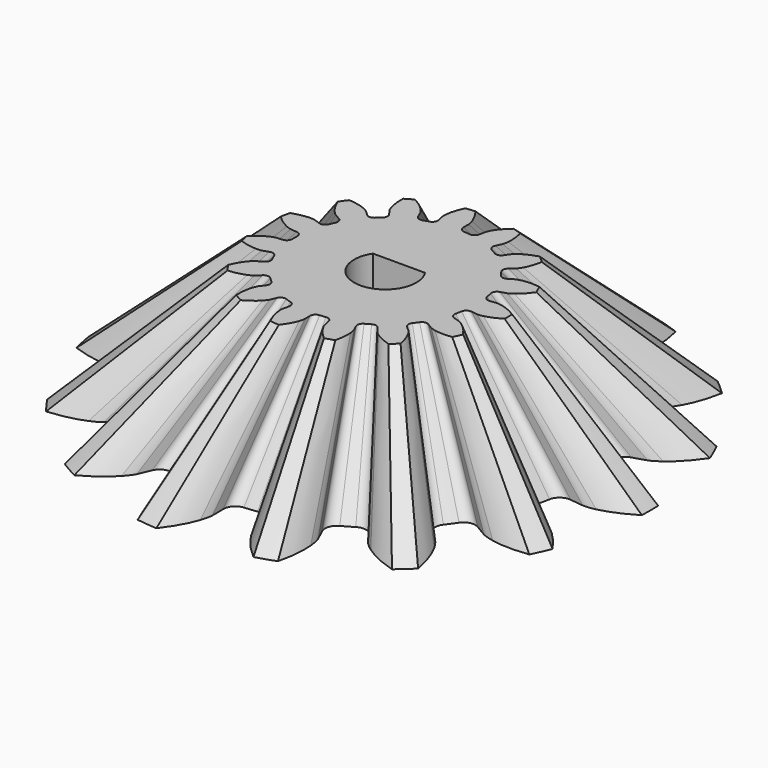
from build123d import *

# Parameters (mm, degrees)
POCKET_DEPTH = 8


with BuildPart() as part:
    # InvoluteGear → Loft section 0
    with BuildSketch(Plane.XY):
        with BuildLine():
            Line((13.165238, -1.582436), (14.027851, -1.684557))
            add(Edge.make_bspline(
                [(14.027851, -1.684557), (14.114762, -1.689022), (14.376017, -1.6907), (14.813388, -1.593059)],
                knots=[0, 0, 0, 0, 1, 1, 1, 1], degree=3))
            add(Edge.make_bspline(
                [(14.813388, -1.593059), (15.335308, -1.474182), (16.082347, -1.214897), (16.989812, -0.655236)],
                knots=[0, 0, 0, 0, 1, 1, 1, 1], degree=3))
            ThreePointArc((16.989812, -0.655236), (17.001222, 0.000521), (16.987329, 0.656229))
            add(Edge.make_bspline(
                [(16.987329, 0.656229), (16.082347, 1.214897), (15.335308, 1.474182), (14.813388, 1.593059)],
                knots=[0, 0, 0, 0, 1, 1, 1, 1], degree=3))
            add(Edge.make_bspline(
                [(14.813388, 1.593059), (14.376017, 1.6907), (14.114762, 1.689022), (14.027851, 1.684557)],
                knots=[0, 0, 0, 0, 1, 1, 1, 1], degree=3))
            Line((14.027851, 1.684557), (13.165238, 1.582436))
            ThreePointArc((13.165238, 1.582436), (12.610006, 1.716521), (12.304976, 2.199449))
            ThreePointArc((12.304976, 2.199449), (12.226845, 2.598896), (12.135751, 2.995588))
            ThreePointArc((12.135751, 2.995588), (12.217985, 3.560831), (12.670678, 3.909158))
            Line((12.670678, 3.909158), (13.50025, 4.166721))
            add(Edge.make_bspline(
                [(13.50025, 4.166721), (13.581464, 4.197993), (13.820815, 4.302721), (14.180659, 4.569815)],
                knots=[0, 0, 0, 0, 1, 1, 1, 1], degree=3))
            add(Edge.make_bspline(
                [(14.180659, 4.569815), (14.609105, 4.890699), (15.186098, 5.431416), (15.787474, 6.311791)],
                knots=[0, 0, 0, 0, 1, 1, 1, 1], degree=3))
            ThreePointArc((15.787474, 6.311791), (15.531177, 6.915496), (15.251785, 7.508865))
            add(Edge.make_bspline(
                [(15.251785, 7.508865), (14.197812, 7.651144), (13.409897, 7.584164), (12.884748, 7.48048)],
                knots=[0, 0, 0, 0, 1, 1, 1, 1], degree=3))
            add(Edge.make_bspline(
                [(12.884748, 7.48048), (12.445476, 7.391785), (12.207489, 7.283989), (12.129908, 7.24456)],
                knots=[0, 0, 0, 0, 1, 1, 1, 1], degree=3))
            Line((12.129908, 7.24456), (11.383409, 6.800412))
            ThreePointArc((11.383409, 6.800412), (10.821641, 6.697072), (10.346558, 7.014181))
            ThreePointArc((10.346558, 7.014181), (10.112712, 7.347316), (9.868145, 7.67266))
            ThreePointArc((9.868145, 7.67266), (9.713365, 8.222483), (9.985243, 8.724823))
            Line((9.985243, 8.724823), (10.638334, 9.297536))
            add(Edge.make_bspline(
                [(10.638334, 9.297536), (10.699807, 9.359136), (10.875868, 9.552164), (11.095965, 9.942528)],
                knots=[0, 0, 0, 0, 1, 1, 1, 1], degree=3))
            add(Edge.make_bspline(
                [(11.095965, 9.942528), (11.356854, 10.409934), (11.664035, 11.138588), (11.855338, 12.187452)],
                knots=[0, 0, 0, 0, 1, 1, 1, 1], degree=3))
            ThreePointArc((11.855338, 12.187452), (11.375651, 12.634719), (10.879069, 13.063149))
            add(Edge.make_bspline(
                [(10.879069, 13.063149), (9.858346, 12.764438), (9.165793, 12.382775), (8.728217, 12.074457)],
                knots=[0, 0, 0, 0, 1, 1, 1, 1], degree=3))
            add(Edge.make_bspline(
                [(8.728217, 12.074457), (8.362998, 11.814762), (8.189431, 11.619488), (8.134594, 11.551913)],
                knots=[0, 0, 0, 0, 1, 1, 1, 1], degree=3))
            Line((8.134594, 11.551913), (7.633285, 10.842535))
            ThreePointArc((7.633285, 10.842535), (7.162117, 10.519637), (6.599127, 10.616097))
            ThreePointArc((6.599127, 10.616097), (6.25, 10.825318), (5.894247, 11.02306))
            ThreePointArc((5.894247, 11.02306), (5.529215, 11.462394), (5.573268, 12.031886))
            Line((5.573268, 12.031886), (5.936953, 12.820722))
            add(Edge.make_bspline(
                [(5.936953, 12.820722), (5.968056, 12.902), (6.050385, 13.14995), (6.092678, 13.596087)],
                knots=[0, 0, 0, 0, 1, 1, 1, 1], degree=3))
            add(Edge.make_bspline(
                [(6.092678, 13.596087), (6.140901, 14.129197), (6.125154, 14.919797), (5.873307, 15.955792)],
                knots=[0, 0, 0, 0, 1, 1, 1, 1], degree=3))
            ThreePointArc((5.873307, 15.955792), (5.253171, 16.169284), (4.625262, 16.358696))
            add(Edge.make_bspline(
                [(4.625262, 16.358696), (3.814283, 15.670645), (3.33684, 15.040292), (3.062499, 14.580652)],
                knots=[0, 0, 0, 0, 1, 1, 1, 1], degree=3))
            add(Edge.make_bspline(
                [(3.062499, 14.580652), (2.834482, 14.19486), (2.755346, 13.945873), (2.732735, 13.861836)],
                knots=[0, 0, 0, 0, 1, 1, 1, 1], degree=3))
            Line((2.732735, 13.861836), (2.563297, 13.009885))
            ThreePointArc((2.563297, 13.009885), (2.264197, 12.523262), (1.710647, 12.382394))
            ThreePointArc((1.710647, 12.382394), (1.306606, 12.431524), (0.90118, 12.467473))
            ThreePointArc((0.90118, 12.467473), (0.389014, 12.720352), (0.197625, 13.258527))
            Line((0.197625, 13.258527), (0.209019, 14.127089))
            add(Edge.make_bspline(
                [(0.209019, 14.127089), (0.204375, 14.21399), (0.178735, 14.47399), (0.035912, 14.898759)],
                knots=[0, 0, 0, 0, 1, 1, 1, 1], degree=3))
            add(Edge.make_bspline(
                [(0.035912, 14.898759), (-0.13687, 15.405393), (-0.472821, 16.121238), (-1.124272, 16.965231)],
                knots=[0, 0, 0, 0, 1, 1, 1, 1], degree=3))
            ThreePointArc((-1.124272, 16.965231), (-1.777629, 16.908033), (-2.428294, 16.825676))
            add(Edge.make_bspline(
                [(-2.428294, 16.825676), (-2.889305, 15.867255), (-3.069082, 15.097205), (-3.132753, 14.565719)],
                knots=[0, 0, 0, 0, 1, 1, 1, 1], degree=3))
            add(Edge.make_bspline(
                [(-3.132753, 14.565719), (-3.184141, 14.120538), (-3.155163, 13.860889), (-3.141639, 13.77492)],
                knots=[0, 0, 0, 0, 1, 1, 1, 1], degree=3))
            Line((-3.141639, 13.77492), (-2.949909, 12.927708))
            ThreePointArc((-2.949909, 12.927708), (-3.025223, 12.361501), (-3.47362, 12.007663))
            ThreePointArc((-3.47362, 12.007663), (-3.862712, 11.888206), (-4.247709, 11.756146))
            ThreePointArc((-4.247709, 11.756146), (-4.818452, 11.778846), (-5.21219, 12.192649))
            Line((-5.21219, 12.192649), (-5.555056, 12.990754))
            add(Edge.make_bspline(
                [(-5.555056, 12.990754), (-5.594645, 13.068253), (-5.723819, 13.295346), (-6.027064, 13.6253)],
                knots=[0, 0, 0, 0, 1, 1, 1, 1], degree=3))
            add(Edge.make_bspline(
                [(-6.027064, 13.6253), (-6.390975, 14.017857), (-6.989042, 14.53517), (-7.927455, 15.041227)],
                knots=[0, 0, 0, 0, 1, 1, 1, 1], degree=3))
            ThreePointArc((-7.927455, 15.041227), (-8.501062, 14.72323), (-9.061976, 14.383344))
            add(Edge.make_bspline(
                [(-9.061976, 14.383344), (-9.093305, 13.320273), (-8.944333, 12.543675), (-8.786324, 12.032241)],
                knots=[0, 0, 0, 0, 1, 1, 1, 1], degree=3))
            add(Edge.make_bspline(
                [(-8.786324, 12.032241), (-8.652198, 11.604646), (-8.520117, 11.379231), (-8.472795, 11.306196)],
                knots=[0, 0, 0, 0, 1, 1, 1, 1], degree=3))
            Line((-8.472795, 11.306196), (-7.953049, 10.610213))
            ThreePointArc((-7.953049, 10.610213), (-7.791554, 10.062325), (-8.057266, 9.556697))
            ThreePointArc((-8.057266, 9.556697), (-8.364133, 9.28931), (-8.662131, 9.012075))
            ThreePointArc((-8.662131, 9.012075), (-9.192763, 8.80067), (-9.720769, 9.01855))
            Line((-9.720769, 9.01855), (-10.358612, 9.608199))
            add(Edge.make_bspline(
                [(-10.358612, 9.608199), (-10.4263, 9.662896), (-10.636674, 9.817816), (-11.047906, 9.995903)],
                knots=[0, 0, 0, 0, 1, 1, 1, 1], degree=3))
            add(Edge.make_bspline(
                [(-11.047906, 9.995903), (-11.540022, 10.206506), (-12.296794, 10.435839), (-13.359908, 10.516458)],
                knots=[0, 0, 0, 0, 1, 1, 1, 1], degree=3))
            ThreePointArc((-13.359908, 10.516458), (-13.754584, 9.992646), (-14.12876, 9.454001))
            add(Edge.make_bspline(
                [(-14.12876, 9.454001), (-13.724991, 8.470094), (-13.273027, 7.821229), (-12.92066, 7.418279)],
                knots=[0, 0, 0, 0, 1, 1, 1, 1], degree=3))
            add(Edge.make_bspline(
                [(-12.92066, 7.418279), (-12.624211, 7.082206), (-12.411864, 6.930002), (-12.338927, 6.882528)],
                knots=[0, 0, 0, 0, 1, 1, 1, 1], degree=3))
            Line((-12.338927, 6.882528), (-11.581034, 6.458116))
            ThreePointArc((-11.581034, 6.458116), (-11.210655, 6.02328), (-11.247738, 5.453292))
            ThreePointArc((-11.247738, 5.453292), (-11.419318, 5.084208), (-11.578791, 4.709734))
            ThreePointArc((-11.578791, 4.709734), (-11.977562, 4.300779), (-12.548539, 4.285063))
            Line((-12.548539, 4.285063), (-13.371069, 4.5643))
            add(Edge.make_bspline(
                [(-13.371069, 4.5643), (-13.455153, 4.586737), (-13.710351, 4.642696), (-14.158464, 4.638124)],
                knots=[0, 0, 0, 0, 1, 1, 1, 1], degree=3))
            add(Edge.make_bspline(
                [(-14.158464, 4.638124), (-14.693695, 4.630357), (-15.478318, 4.532057), (-16.482312, 4.173298)],
                knots=[0, 0, 0, 0, 1, 1, 1, 1], degree=3))
            ThreePointArc((-16.482312, 4.173298), (-16.629813, 3.534243), (-16.752553, 2.889975))
            add(Edge.make_bspline(
                [(-16.752553, 2.889975), (-15.983501, 2.155359), (-15.306694, 1.746422), (-14.820896, 1.521629)],
                knots=[0, 0, 0, 0, 1, 1, 1, 1], degree=3))
            add(Edge.make_bspline(
                [(-14.820896, 1.521629), (-14.413383, 1.335188), (-14.157488, 1.282511), (-14.071548, 1.268809)],
                knots=[0, 0, 0, 0, 1, 1, 1, 1], degree=3))
            Line((-14.071548, 1.268809), (-13.206553, 1.189351))
            ThreePointArc((-13.206553, 1.189351), (-12.691332, 0.942756), (-12.493373, 0.406963))
            ThreePointArc((-12.493373, 0.406963), (-12.5, 0), (-12.493373, -0.406963))
            ThreePointArc((-12.493373, -0.406963), (-12.691332, -0.942756), (-13.206553, -1.189351))
            Line((-13.206553, -1.189351), (-14.071548, -1.268809))
            add(Edge.make_bspline(
                [(-14.071548, -1.268809), (-14.157488, -1.282511), (-14.413383, -1.335188), (-14.820896, -1.521629)],
                knots=[0, 0, 0, 0, 1, 1, 1, 1], degree=3))
            add(Edge.make_bspline(
                [(-14.820896, -1.521629), (-15.306694, -1.746422), (-15.983501, -2.155359), (-16.754775, -2.891463)],
                knots=[0, 0, 0, 0, 1, 1, 1, 1], degree=3))
            ThreePointArc((-16.754775, -2.891463), (-16.629596, -3.535262), (-16.479678, -4.173754))
            add(Edge.make_bspline(
                [(-16.479678, -4.173754), (-15.478318, -4.532057), (-14.693695, -4.630357), (-14.158464, -4.638124)],
                knots=[0, 0, 0, 0, 1, 1, 1, 1], degree=3))
            add(Edge.make_bspline(
                [(-14.158464, -4.638124), (-13.710351, -4.642696), (-13.455153, -4.586737), (-13.371069, -4.5643)],
                knots=[0, 0, 0, 0, 1, 1, 1, 1], degree=3))
            Line((-13.371069, -4.5643), (-12.548539, -4.285063))
            ThreePointArc((-12.548539, -4.285063), (-11.977562, -4.300779), (-11.578791, -4.709734))
            ThreePointArc((-11.578791, -4.709734), (-11.419318, -5.084208), (-11.247738, -5.453292))
            ThreePointArc((-11.247738, -5.453292), (-11.210655, -6.02328), (-11.581034, -6.458116))
            Line((-11.581034, -6.458116), (-12.338927, -6.882528))
            add(Edge.make_bspline(
                [(-12.338927, -6.882528), (-12.411864, -6.930002), (-12.624211, -7.082206), (-12.92066, -7.418279)],
                knots=[0, 0, 0, 0, 1, 1, 1, 1], degree=3))
            add(Edge.make_bspline(
                [(-12.92066, -7.418279), (-13.273027, -7.821229), (-13.724991, -8.470094), (-14.130184, -9.456264)],
                knots=[0, 0, 0, 0, 1, 1, 1, 1], degree=3))
            ThreePointArc((-14.130184, -9.456264), (-13.753971, -9.993489), (-13.357316, -10.515803))
            add(Edge.make_bspline(
                [(-13.357316, -10.515803), (-12.296794, -10.435839), (-11.540022, -10.206506), (-11.047906, -9.995903)],
                knots=[0, 0, 0, 0, 1, 1, 1, 1], degree=3))
            add(Edge.make_bspline(
                [(-11.047906, -9.995903), (-10.636674, -9.817816), (-10.4263, -9.662896), (-10.358612, -9.608199)],
                knots=[0, 0, 0, 0, 1, 1, 1, 1], degree=3))
            Line((-10.358612, -9.608199), (-9.720769, -9.01855))
            ThreePointArc((-9.720769, -9.01855), (-9.192763, -8.80067), (-8.662131, -9.012075))
            ThreePointArc((-8.662131, -9.012075), (-8.364133, -9.28931), (-8.057266, -9.556697))
            ThreePointArc((-8.057266, -9.556697), (-7.791554, -10.062325), (-7.953049, -10.610213))
            Line((-7.953049, -10.610213), (-8.472795, -11.306196))
            add(Edge.make_bspline(
                [(-8.472795, -11.306196), (-8.520117, -11.379231), (-8.652198, -11.604646), (-8.786324, -12.032241)],
                knots=[0, 0, 0, 0, 1, 1, 1, 1], degree=3))
            add(Edge.make_bspline(
                [(-8.786324, -12.032241), (-8.944333, -12.543675), (-9.093305, -13.320273), (-9.062357, -14.385991)],
                knots=[0, 0, 0, 0, 1, 1, 1, 1], degree=3))
            ThreePointArc((-9.062357, -14.385991), (-8.50016, -14.72375), (-7.925353, -15.039574))
            add(Edge.make_bspline(
                [(-7.925353, -15.039574), (-6.989042, -14.53517), (-6.390975, -14.017857), (-6.027064, -13.6253)],
                knots=[0, 0, 0, 0, 1, 1, 1, 1], degree=3))
            add(Edge.make_bspline(
                [(-6.027064, -13.6253), (-5.723819, -13.295346), (-5.594645, -13.068253), (-5.555056, -12.990754)],
                knots=[0, 0, 0, 0, 1, 1, 1, 1], degree=3))
            Line((-5.555056, -12.990754), (-5.21219, -12.192649))
            ThreePointArc((-5.21219, -12.192649), (-4.818452, -11.778846), (-4.247709, -11.756146))
            ThreePointArc((-4.247709, -11.756146), (-3.862712, -11.888206), (-3.47362, -12.007663))
            ThreePointArc((-3.47362, -12.007663), (-3.025223, -12.361501), (-2.949909, -12.927708))
            Line((-2.949909, -12.927708), (-3.141639, -13.77492))
            add(Edge.make_bspline(
                [(-3.141639, -13.77492), (-3.155163, -13.860889), (-3.184141, -14.120538), (-3.132753, -14.565719)],
                knots=[0, 0, 0, 0, 1, 1, 1, 1], degree=3))
            add(Edge.make_bspline(
                [(-3.132753, -14.565719), (-3.069082, -15.097205), (-2.889305, -15.867255), (-2.427565, -16.828249)],
                knots=[0, 0, 0, 0, 1, 1, 1, 1], degree=3))
            ThreePointArc((-2.427565, -16.828249), (-1.776594, -16.908142), (-1.123025, -16.962866))
            add(Edge.make_bspline(
                [(-1.123025, -16.962866), (-0.472821, -16.121238), (-0.13687, -15.405393), (0.035912, -14.898759)],
                knots=[0, 0, 0, 0, 1, 1, 1, 1], degree=3))
            add(Edge.make_bspline(
                [(0.035912, -14.898759), (0.178735, -14.47399), (0.204375, -14.21399), (0.209019, -14.127089)],
                knots=[0, 0, 0, 0, 1, 1, 1, 1], degree=3))
            Line((0.209019, -14.127089), (0.197625, -13.258527))
            ThreePointArc((0.197625, -13.258527), (0.389014, -12.720352), (0.90118, -12.467473))
            ThreePointArc((0.90118, -12.467473), (1.306606, -12.431524), (1.710647, -12.382394))
            ThreePointArc((1.710647, -12.382394), (2.264197, -12.523262), (2.563297, -13.009885))
            Line((2.563297, -13.009885), (2.732735, -13.861836))
            add(Edge.make_bspline(
                [(2.732735, -13.861836), (2.755346, -13.945873), (2.834482, -14.19486), (3.062499, -14.580652)],
                knots=[0, 0, 0, 0, 1, 1, 1, 1], degree=3))
            add(Edge.make_bspline(
                [(3.062499, -14.580652), (3.33684, -15.040292), (3.814283, -15.670645), (4.626974, -16.36075)],
                knots=[0, 0, 0, 0, 1, 1, 1, 1], degree=3))
            ThreePointArc((4.626974, -16.36075), (5.254162, -16.168962), (5.873485, -15.953124))
            add(Edge.make_bspline(
                [(5.873485, -15.953124), (6.125154, -14.919797), (6.140901, -14.129197), (6.092678, -13.596087)],
                knots=[0, 0, 0, 0, 1, 1, 1, 1], degree=3))
            add(Edge.make_bspline(
                [(6.092678, -13.596087), (6.050385, -13.14995), (5.968056, -12.902), (5.936953, -12.820722)],
                knots=[0, 0, 0, 0, 1, 1, 1, 1], degree=3))
            Line((5.936953, -12.820722), (5.573268, -12.031886))
            ThreePointArc((5.573268, -12.031886), (5.529215, -11.462394), (5.894247, -11.02306))
            ThreePointArc((5.894247, -11.02306), (6.25, -10.825318), (6.599127, -10.616097))
            ThreePointArc((6.599127, -10.616097), (7.162117, -10.519637), (7.633285, -10.842535))
            Line((7.633285, -10.842535), (8.134594, -11.551913))
            add(Edge.make_bspline(
                [(8.134594, -11.551913), (8.189431, -11.619488), (8.362998, -11.814762), (8.728217, -12.074457)],
                knots=[0, 0, 0, 0, 1, 1, 1, 1], degree=3))
            add(Edge.make_bspline(
                [(8.728217, -12.074457), (9.165793, -12.382775), (9.858346, -12.764438), (10.881468, -13.064329)],
                knots=[0, 0, 0, 0, 1, 1, 1, 1], degree=3))
            ThreePointArc((10.881468, -13.064329), (11.376425, -12.634022), (11.854416, -12.184943))
            add(Edge.make_bspline(
                [(11.854416, -12.184943), (11.664035, -11.138588), (11.356854, -10.409934), (11.095965, -9.942528)],
                knots=[0, 0, 0, 0, 1, 1, 1, 1], degree=3))
            add(Edge.make_bspline(
                [(11.095965, -9.942528), (10.875868, -9.552164), (10.699807, -9.359136), (10.638334, -9.297536)],
                knots=[0, 0, 0, 0, 1, 1, 1, 1], degree=3))
            Line((10.638334, -9.297536), (9.985243, -8.724823))
            ThreePointArc((9.985243, -8.724823), (9.713365, -8.222483), (9.868145, -7.67266))
            ThreePointArc((9.868145, -7.67266), (10.112712, -7.347316), (10.346558, -7.014181))
            ThreePointArc((10.346558, -7.014181), (10.821641, -6.697072), (11.383409, -6.800412))
            Line((11.383409, -6.800412), (12.129908, -7.24456))
            add(Edge.make_bspline(
                [(12.129908, -7.24456), (12.207489, -7.283989), (12.445476, -7.391785), (12.884748, -7.48048)],
                knots=[0, 0, 0, 0, 1, 1, 1, 1], degree=3))
            add(Edge.make_bspline(
                [(12.884748, -7.48048), (13.409897, -7.584164), (14.197812, -7.651144), (15.254457, -7.508967)],
                knots=[0, 0, 0, 0, 1, 1, 1, 1], degree=3))
            ThreePointArc((15.254457, -7.508967), (15.531601, -6.914544), (15.78561, -6.309874))
            add(Edge.make_bspline(
                [(15.78561, -6.309874), (15.186098, -5.431416), (14.609105, -4.890699), (14.180659, -4.569815)],
                knots=[0, 0, 0, 0, 1, 1, 1, 1], degree=3))
            add(Edge.make_bspline(
                [(14.180659, -4.569815), (13.820815, -4.302721), (13.581464, -4.197993), (13.50025, -4.166721)],
                knots=[0, 0, 0, 0, 1, 1, 1, 1], degree=3))
            Line((13.50025, -4.166721), (12.670678, -3.909158))
            ThreePointArc((12.670678, -3.909158), (12.217985, -3.560831), (12.135751, -2.995588))
            ThreePointArc((12.135751, -2.995588), (12.226845, -2.598896), (12.304976, -2.199449))
            ThreePointArc((12.304976, -2.199449), (12.610006, -1.716521), (13.165238, -1.582436))
        make_face()
    # InvoluteGear001 → Loft section 1
    with BuildSketch(Plane.XY.offset(8)):
        with BuildLine():
            Line((6.121836, -0.735833), (6.522951, -0.783319))
            add(Edge.make_bspline(
                [(6.522951, -0.783319), (6.563364, -0.785395), (6.684848, -0.786176), (6.888225, -0.740773)],
                knots=[0, 0, 0, 0, 1, 1, 1, 1], degree=3))
            add(Edge.make_bspline(
                [(6.888225, -0.740773), (7.130918, -0.685495), (7.478291, -0.564927), (7.900262, -0.304685)],
                knots=[0, 0, 0, 0, 1, 1, 1, 1], degree=3))
            ThreePointArc((7.900262, -0.304685), (7.905568, 0.000242), (7.899108, 0.305147))
            add(Edge.make_bspline(
                [(7.899108, 0.305147), (7.478291, 0.564927), (7.130918, 0.685495), (6.888225, 0.740773)],
                knots=[0, 0, 0, 0, 1, 1, 1, 1], degree=3))
            add(Edge.make_bspline(
                [(6.888225, 0.740773), (6.684848, 0.786176), (6.563364, 0.785395), (6.522951, 0.783319)],
                knots=[0, 0, 0, 0, 1, 1, 1, 1], degree=3))
            Line((6.522951, 0.783319), (6.121836, 0.735833))
            ThreePointArc((6.121836, 0.735833), (5.863653, 0.798182), (5.721814, 1.022744))
            ThreePointArc((5.721814, 1.022744), (5.685483, 1.208487), (5.643124, 1.392948))
            ThreePointArc((5.643124, 1.392948), (5.681363, 1.655786), (5.891865, 1.817758))
            Line((5.891865, 1.817758), (6.277616, 1.937525))
            add(Edge.make_bspline(
                [(6.277616, 1.937525), (6.315381, 1.952067), (6.426679, 2.000765), (6.594006, 2.124964)],
                knots=[0, 0, 0, 0, 1, 1, 1, 1], degree=3))
            add(Edge.make_bspline(
                [(6.594006, 2.124964), (6.793234, 2.274175), (7.061536, 2.525609), (7.341175, 2.934983)],
                knots=[0, 0, 0, 0, 1, 1, 1, 1], degree=3))
            ThreePointArc((7.341175, 2.934983), (7.221997, 3.215705), (7.09208, 3.491622))
            add(Edge.make_bspline(
                [(7.09208, 3.491622), (6.601983, 3.557782), (6.235602, 3.526636), (5.991408, 3.478423)],
                knots=[0, 0, 0, 0, 1, 1, 1, 1], degree=3))
            add(Edge.make_bspline(
                [(5.991408, 3.478423), (5.787146, 3.43718), (5.676483, 3.387055), (5.640407, 3.368721)],
                knots=[0, 0, 0, 0, 1, 1, 1, 1], degree=3))
            Line((5.640407, 3.368721), (5.293285, 3.162191))
            ThreePointArc((5.293285, 3.162191), (5.032063, 3.114138), (4.81115, 3.261594))
            ThreePointArc((4.81115, 3.261594), (4.702411, 3.416502), (4.588687, 3.567787))
            ThreePointArc((4.588687, 3.567787), (4.516715, 3.823455), (4.643138, 4.057042))
            Line((4.643138, 4.057042), (4.946825, 4.323354))
            add(Edge.make_bspline(
                [(4.946825, 4.323354), (4.97541, 4.351998), (5.057279, 4.441756), (5.159624, 4.623275)],
                knots=[0, 0, 0, 0, 1, 1, 1, 1], degree=3))
            add(Edge.make_bspline(
                [(5.159624, 4.623275), (5.280937, 4.840619), (5.423776, 5.179444), (5.512732, 5.667165)],
                knots=[0, 0, 0, 0, 1, 1, 1, 1], degree=3))
            ThreePointArc((5.512732, 5.667165), (5.289678, 5.875144), (5.058767, 6.074364))
            add(Edge.make_bspline(
                [(5.058767, 6.074364), (4.584131, 5.935464), (4.262094, 5.75799), (4.058621, 5.614623)],
                knots=[0, 0, 0, 0, 1, 1, 1, 1], degree=3))
            add(Edge.make_bspline(
                [(4.058621, 5.614623), (3.888794, 5.493864), (3.808086, 5.403062), (3.782586, 5.37164)],
                knots=[0, 0, 0, 0, 1, 1, 1, 1], degree=3))
            Line((3.782586, 5.37164), (3.549477, 5.041779))
            ThreePointArc((3.549477, 5.041779), (3.330384, 4.891631), (3.068594, 4.936485))
            ThreePointArc((3.068594, 4.936485), (2.90625, 5.033773), (2.740825, 5.125723))
            ThreePointArc((2.740825, 5.125723), (2.571085, 5.330013), (2.59157, 5.594827))
            Line((2.59157, 5.594827), (2.760683, 5.961636))
            add(Edge.make_bspline(
                [(2.760683, 5.961636), (2.775146, 5.99943), (2.813429, 6.114727), (2.833095, 6.32218)],
                knots=[0, 0, 0, 0, 1, 1, 1, 1], degree=3))
            add(Edge.make_bspline(
                [(2.833095, 6.32218), (2.855519, 6.570077), (2.848197, 6.937706), (2.731088, 7.419443)],
                knots=[0, 0, 0, 0, 1, 1, 1, 1], degree=3))
            ThreePointArc((2.731088, 7.419443), (2.442725, 7.518717), (2.150747, 7.606794))
            add(Edge.make_bspline(
                [(2.150747, 7.606794), (1.773641, 7.28685), (1.551631, 6.993736), (1.424062, 6.780003)],
                knots=[0, 0, 0, 0, 1, 1, 1, 1], degree=3))
            add(Edge.make_bspline(
                [(1.424062, 6.780003), (1.318034, 6.60061), (1.281236, 6.484831), (1.270722, 6.445754)],
                knots=[0, 0, 0, 0, 1, 1, 1, 1], degree=3))
            Line((1.270722, 6.445754), (1.191933, 6.049597))
            ThreePointArc((1.191933, 6.049597), (1.052852, 5.823317), (0.795451, 5.757813))
            ThreePointArc((0.795451, 5.757813), (0.607572, 5.780659), (0.419049, 5.797375))
            ThreePointArc((0.419049, 5.797375), (0.180891, 5.914964), (0.091896, 6.165215))
            Line((0.091896, 6.165215), (0.097194, 6.569096))
            add(Edge.make_bspline(
                [(0.097194, 6.569096), (0.095034, 6.609506), (0.083112, 6.730405), (0.016699, 6.927923)],
                knots=[0, 0, 0, 0, 1, 1, 1, 1], degree=3))
            add(Edge.make_bspline(
                [(0.016699, 6.927923), (-0.063644, 7.163508), (-0.219862, 7.496376), (-0.522787, 7.888832)],
                knots=[0, 0, 0, 0, 1, 1, 1, 1], degree=3))
            ThreePointArc((-0.522787, 7.888832), (-0.826598, 7.862235), (-1.129157, 7.82394))
            add(Edge.make_bspline(
                [(-1.129157, 7.82394), (-1.343527, 7.378274), (-1.427123, 7.0202), (-1.45673, 6.773059)],
                knots=[0, 0, 0, 0, 1, 1, 1, 1], degree=3))
            add(Edge.make_bspline(
                [(-1.45673, 6.773059), (-1.480626, 6.56605), (-1.467151, 6.445313), (-1.460862, 6.405338)],
                knots=[0, 0, 0, 0, 1, 1, 1, 1], degree=3))
            Line((-1.460862, 6.405338), (-1.371708, 6.011384))
            ThreePointArc((-1.371708, 6.011384), (-1.406728, 5.748098), (-1.615233, 5.583563))
            ThreePointArc((-1.615233, 5.583563), (-1.796161, 5.528016), (-1.975185, 5.466608))
            ThreePointArc((-1.975185, 5.466608), (-2.24058, 5.477163), (-2.423668, 5.669582))
            Line((-2.423668, 5.669582), (-2.583101, 6.0407))
            add(Edge.make_bspline(
                [(-2.583101, 6.0407), (-2.60151, 6.076738), (-2.661576, 6.182336), (-2.802585, 6.335765)],
                knots=[0, 0, 0, 0, 1, 1, 1, 1], degree=3))
            add(Edge.make_bspline(
                [(-2.802585, 6.335765), (-2.971803, 6.518304), (-3.249904, 6.758854), (-3.686267, 6.99417)],
                knots=[0, 0, 0, 0, 1, 1, 1, 1], degree=3))
            ThreePointArc((-3.686267, 6.99417), (-3.952994, 6.846302), (-4.213819, 6.688255))
            add(Edge.make_bspline(
                [(-4.213819, 6.688255), (-4.228387, 6.193927), (-4.159115, 5.832809), (-4.085641, 5.594992)],
                knots=[0, 0, 0, 0, 1, 1, 1, 1], degree=3))
            add(Edge.make_bspline(
                [(-4.085641, 5.594992), (-4.023272, 5.39616), (-3.961854, 5.291343), (-3.93985, 5.257381)],
                knots=[0, 0, 0, 0, 1, 1, 1, 1], degree=3))
            Line((-3.93985, 5.257381), (-3.698168, 4.933749))
            ThreePointArc((-3.698168, 4.933749), (-3.623073, 4.678981), (-3.746629, 4.443864))
            ThreePointArc((-3.746629, 4.443864), (-3.889322, 4.319529), (-4.027891, 4.190615))
            ThreePointArc((-4.027891, 4.190615), (-4.274635, 4.092312), (-4.520158, 4.193626))
            Line((-4.520158, 4.193626), (-4.816754, 4.467813))
            add(Edge.make_bspline(
                [(-4.816754, 4.467813), (-4.84823, 4.493247), (-4.946053, 4.565285), (-5.137276, 4.648095)],
                knots=[0, 0, 0, 0, 1, 1, 1, 1], degree=3))
            add(Edge.make_bspline(
                [(-5.137276, 4.648095), (-5.36611, 4.746025), (-5.718009, 4.852665), (-6.212357, 4.890153)],
                knots=[0, 0, 0, 0, 1, 1, 1, 1], degree=3))
            ThreePointArc((-6.212357, 4.890153), (-6.395881, 4.646581), (-6.569874, 4.39611))
            add(Edge.make_bspline(
                [(-6.569874, 4.39611), (-6.382121, 3.938594), (-6.171958, 3.636872), (-6.008107, 3.4495)],
                knots=[0, 0, 0, 0, 1, 1, 1, 1], degree=3))
            add(Edge.make_bspline(
                [(-6.008107, 3.4495), (-5.870258, 3.293226), (-5.771517, 3.222451), (-5.737601, 3.200376)],
                knots=[0, 0, 0, 0, 1, 1, 1, 1], degree=3))
            Line((-5.737601, 3.200376), (-5.385181, 3.003024))
            ThreePointArc((-5.385181, 3.003024), (-5.212954, 2.800825), (-5.230198, 2.535781))
            ThreePointArc((-5.230198, 2.535781), (-5.309983, 2.364157), (-5.384138, 2.190026))
            ThreePointArc((-5.384138, 2.190026), (-5.569566, 1.999862), (-5.835071, 1.992554))
            Line((-5.835071, 1.992554), (-6.217547, 2.122399))
            add(Edge.make_bspline(
                [(-6.217547, 2.122399), (-6.256646, 2.132832), (-6.375313, 2.158854), (-6.583686, 2.156728)],
                knots=[0, 0, 0, 0, 1, 1, 1, 1], degree=3))
            add(Edge.make_bspline(
                [(-6.583686, 2.156728), (-6.832568, 2.153116), (-7.197418, 2.107406), (-7.664275, 1.940584)],
                knots=[0, 0, 0, 0, 1, 1, 1, 1], degree=3))
            ThreePointArc((-7.664275, 1.940584), (-7.732863, 1.643423), (-7.789937, 1.343838))
            add(Edge.make_bspline(
                [(-7.789937, 1.343838), (-7.432328, 1.002242), (-7.117613, 0.812086), (-6.891716, 0.707558)],
                knots=[0, 0, 0, 0, 1, 1, 1, 1], degree=3))
            add(Edge.make_bspline(
                [(-6.891716, 0.707558), (-6.702223, 0.620862), (-6.583232, 0.596368), (-6.54327, 0.589996)],
                knots=[0, 0, 0, 0, 1, 1, 1, 1], degree=3))
            Line((-6.54327, 0.589996), (-6.141047, 0.553048))
            ThreePointArc((-6.141047, 0.553048), (-5.901469, 0.438382), (-5.809419, 0.189238))
            ThreePointArc((-5.809419, 0.189238), (-5.8125, 0), (-5.809419, -0.189238))
            ThreePointArc((-5.809419, -0.189238), (-5.901469, -0.438382), (-6.141047, -0.553048))
            Line((-6.141047, -0.553048), (-6.54327, -0.589996))
            add(Edge.make_bspline(
                [(-6.54327, -0.589996), (-6.583232, -0.596368), (-6.702223, -0.620862), (-6.891716, -0.707558)],
                knots=[0, 0, 0, 0, 1, 1, 1, 1], degree=3))
            add(Edge.make_bspline(
                [(-6.891716, -0.707558), (-7.117613, -0.812086), (-7.432328, -1.002242), (-7.79097, -1.34453)],
                knots=[0, 0, 0, 0, 1, 1, 1, 1], degree=3))
            ThreePointArc((-7.79097, -1.34453), (-7.732762, -1.643897), (-7.66305, -1.940795))
            add(Edge.make_bspline(
                [(-7.66305, -1.940795), (-7.197418, -2.107406), (-6.832568, -2.153116), (-6.583686, -2.156728)],
                knots=[0, 0, 0, 0, 1, 1, 1, 1], degree=3))
            add(Edge.make_bspline(
                [(-6.583686, -2.156728), (-6.375313, -2.158854), (-6.256646, -2.132832), (-6.217547, -2.122399)],
                knots=[0, 0, 0, 0, 1, 1, 1, 1], degree=3))
            Line((-6.217547, -2.122399), (-5.835071, -1.992554))
            ThreePointArc((-5.835071, -1.992554), (-5.569566, -1.999862), (-5.384138, -2.190026))
            ThreePointArc((-5.384138, -2.190026), (-5.309983, -2.364157), (-5.230198, -2.535781))
            ThreePointArc((-5.230198, -2.535781), (-5.212954, -2.800825), (-5.385181, -3.003024))
            Line((-5.385181, -3.003024), (-5.737601, -3.200376))
            add(Edge.make_bspline(
                [(-5.737601, -3.200376), (-5.771517, -3.222451), (-5.870258, -3.293226), (-6.008107, -3.4495)],
                knots=[0, 0, 0, 0, 1, 1, 1, 1], degree=3))
            add(Edge.make_bspline(
                [(-6.008107, -3.4495), (-6.171958, -3.636872), (-6.382121, -3.938594), (-6.570536, -4.397163)],
                knots=[0, 0, 0, 0, 1, 1, 1, 1], degree=3))
            ThreePointArc((-6.570536, -4.397163), (-6.395597, -4.646972), (-6.211152, -4.889848))
            add(Edge.make_bspline(
                [(-6.211152, -4.889848), (-5.718009, -4.852665), (-5.36611, -4.746025), (-5.137276, -4.648095)],
                knots=[0, 0, 0, 0, 1, 1, 1, 1], degree=3))
            add(Edge.make_bspline(
                [(-5.137276, -4.648095), (-4.946053, -4.565285), (-4.84823, -4.493247), (-4.816754, -4.467813)],
                knots=[0, 0, 0, 0, 1, 1, 1, 1], degree=3))
            Line((-4.816754, -4.467813), (-4.520158, -4.193626))
            ThreePointArc((-4.520158, -4.193626), (-4.274635, -4.092312), (-4.027891, -4.190615))
            ThreePointArc((-4.027891, -4.190615), (-3.889322, -4.319529), (-3.746629, -4.443864))
            ThreePointArc((-3.746629, -4.443864), (-3.623073, -4.678981), (-3.698168, -4.933749))
            Line((-3.698168, -4.933749), (-3.93985, -5.257381))
            add(Edge.make_bspline(
                [(-3.93985, -5.257381), (-3.961854, -5.291343), (-4.023272, -5.39616), (-4.085641, -5.594992)],
                knots=[0, 0, 0, 0, 1, 1, 1, 1], degree=3))
            add(Edge.make_bspline(
                [(-4.085641, -5.594992), (-4.159115, -5.832809), (-4.228387, -6.193927), (-4.213996, -6.689486)],
                knots=[0, 0, 0, 0, 1, 1, 1, 1], degree=3))
            ThreePointArc((-4.213996, -6.689486), (-3.952574, -6.846544), (-3.685289, -6.993402))
            add(Edge.make_bspline(
                [(-3.685289, -6.993402), (-3.249904, -6.758854), (-2.971803, -6.518304), (-2.802585, -6.335765)],
                knots=[0, 0, 0, 0, 1, 1, 1, 1], degree=3))
            add(Edge.make_bspline(
                [(-2.802585, -6.335765), (-2.661576, -6.182336), (-2.60151, -6.076738), (-2.583101, -6.0407)],
                knots=[0, 0, 0, 0, 1, 1, 1, 1], degree=3))
            Line((-2.583101, -6.0407), (-2.423668, -5.669582))
            ThreePointArc((-2.423668, -5.669582), (-2.24058, -5.477163), (-1.975185, -5.466608))
            ThreePointArc((-1.975185, -5.466608), (-1.796161, -5.528016), (-1.615233, -5.583563))
            ThreePointArc((-1.615233, -5.583563), (-1.406728, -5.748098), (-1.371708, -6.011384))
            Line((-1.371708, -6.011384), (-1.460862, -6.405338))
            add(Edge.make_bspline(
                [(-1.460862, -6.405338), (-1.467151, -6.445313), (-1.480626, -6.56605), (-1.45673, -6.773059)],
                knots=[0, 0, 0, 0, 1, 1, 1, 1], degree=3))
            add(Edge.make_bspline(
                [(-1.45673, -6.773059), (-1.427123, -7.0202), (-1.343527, -7.378274), (-1.128818, -7.825136)],
                knots=[0, 0, 0, 0, 1, 1, 1, 1], degree=3))
            ThreePointArc((-1.128818, -7.825136), (-0.826116, -7.862286), (-0.522207, -7.887733))
            add(Edge.make_bspline(
                [(-0.522207, -7.887733), (-0.219862, -7.496376), (-0.063644, -7.163508), (0.016699, -6.927923)],
                knots=[0, 0, 0, 0, 1, 1, 1, 1], degree=3))
            add(Edge.make_bspline(
                [(0.016699, -6.927923), (0.083112, -6.730405), (0.095034, -6.609506), (0.097194, -6.569096)],
                knots=[0, 0, 0, 0, 1, 1, 1, 1], degree=3))
            Line((0.097194, -6.569096), (0.091896, -6.165215))
            ThreePointArc((0.091896, -6.165215), (0.180891, -5.914964), (0.419049, -5.797375))
            ThreePointArc((0.419049, -5.797375), (0.607572, -5.780659), (0.795451, -5.757813))
            ThreePointArc((0.795451, -5.757813), (1.052852, -5.823317), (1.191933, -6.049597))
            Line((1.191933, -6.049597), (1.270722, -6.445754))
            add(Edge.make_bspline(
                [(1.270722, -6.445754), (1.281236, -6.484831), (1.318034, -6.60061), (1.424062, -6.780003)],
                knots=[0, 0, 0, 0, 1, 1, 1, 1], degree=3))
            add(Edge.make_bspline(
                [(1.424062, -6.780003), (1.551631, -6.993736), (1.773641, -7.28685), (2.151543, -7.607749)],
                knots=[0, 0, 0, 0, 1, 1, 1, 1], degree=3))
            ThreePointArc((2.151543, -7.607749), (2.443185, -7.518567), (2.73117, -7.418203))
            add(Edge.make_bspline(
                [(2.73117, -7.418203), (2.848197, -6.937706), (2.855519, -6.570077), (2.833095, -6.32218)],
                knots=[0, 0, 0, 0, 1, 1, 1, 1], degree=3))
            add(Edge.make_bspline(
                [(2.833095, -6.32218), (2.813429, -6.114727), (2.775146, -5.99943), (2.760683, -5.961636)],
                knots=[0, 0, 0, 0, 1, 1, 1, 1], degree=3))
            Line((2.760683, -5.961636), (2.59157, -5.594827))
            ThreePointArc((2.59157, -5.594827), (2.571085, -5.330013), (2.740825, -5.125723))
            ThreePointArc((2.740825, -5.125723), (2.90625, -5.033773), (3.068594, -4.936485))
            ThreePointArc((3.068594, -4.936485), (3.330384, -4.891631), (3.549477, -5.041779))
            Line((3.549477, -5.041779), (3.782586, -5.37164))
            add(Edge.make_bspline(
                [(3.782586, -5.37164), (3.808086, -5.403062), (3.888794, -5.493864), (4.058621, -5.614623)],
                knots=[0, 0, 0, 0, 1, 1, 1, 1], degree=3))
            add(Edge.make_bspline(
                [(4.058621, -5.614623), (4.262094, -5.75799), (4.584131, -5.935464), (5.059883, -6.074913)],
                knots=[0, 0, 0, 0, 1, 1, 1, 1], degree=3))
            ThreePointArc((5.059883, -6.074913), (5.290038, -5.87482), (5.512303, -5.665998))
            add(Edge.make_bspline(
                [(5.512303, -5.665998), (5.423776, -5.179444), (5.280937, -4.840619), (5.159624, -4.623275)],
                knots=[0, 0, 0, 0, 1, 1, 1, 1], degree=3))
            add(Edge.make_bspline(
                [(5.159624, -4.623275), (5.057279, -4.441756), (4.97541, -4.351998), (4.946825, -4.323354)],
                knots=[0, 0, 0, 0, 1, 1, 1, 1], degree=3))
            Line((4.946825, -4.323354), (4.643138, -4.057042))
            ThreePointArc((4.643138, -4.057042), (4.516715, -3.823455), (4.588687, -3.567787))
            ThreePointArc((4.588687, -3.567787), (4.702411, -3.416502), (4.81115, -3.261594))
            ThreePointArc((4.81115, -3.261594), (5.032063, -3.114138), (5.293285, -3.162191))
            Line((5.293285, -3.162191), (5.640407, -3.368721))
            add(Edge.make_bspline(
                [(5.640407, -3.368721), (5.676483, -3.387055), (5.787146, -3.43718), (5.991408, -3.478423)],
                knots=[0, 0, 0, 0, 1, 1, 1, 1], degree=3))
            add(Edge.make_bspline(
                [(5.991408, -3.478423), (6.235602, -3.526636), (6.601983, -3.557782), (7.093322, -3.49167)],
                knots=[0, 0, 0, 0, 1, 1, 1, 1], degree=3))
            ThreePointArc((7.093322, -3.49167), (7.222194, -3.215263), (7.340309, -2.934091))
            add(Edge.make_bspline(
                [(7.340309, -2.934091), (7.061536, -2.525609), (6.793234, -2.274175), (6.594006, -2.124964)],
                knots=[0, 0, 0, 0, 1, 1, 1, 1], degree=3))
            add(Edge.make_bspline(
                [(6.594006, -2.124964), (6.426679, -2.000765), (6.315381, -1.952067), (6.277616, -1.937525)],
                knots=[0, 0, 0, 0, 1, 1, 1, 1], degree=3))
            Line((6.277616, -1.937525), (5.891865, -1.817758))
            ThreePointArc((5.891865, -1.817758), (5.681363, -1.655786), (5.643124, -1.392948))
            ThreePointArc((5.643124, -1.392948), (5.685483, -1.208487), (5.721814, -1.022744))
            ThreePointArc((5.721814, -1.022744), (5.863653, -0.798182), (6.121836, -0.735833))
        make_face()
    loft()

    # Sketch (on Face152 of BaseFeature) → Pocket (cut)
    with BuildSketch(Plane.XY.offset(8)):
        with BuildLine():
            ThreePointArc((-1.670329, 1.1), (0, -2), (1.670329, 1.1))
            Line((-1.670329, 1.1), (1.670329, 1.1))
        make_face()
    extrude(amount=-POCKET_DEPTH, mode=Mode.SUBTRACT)


solid = part.part
